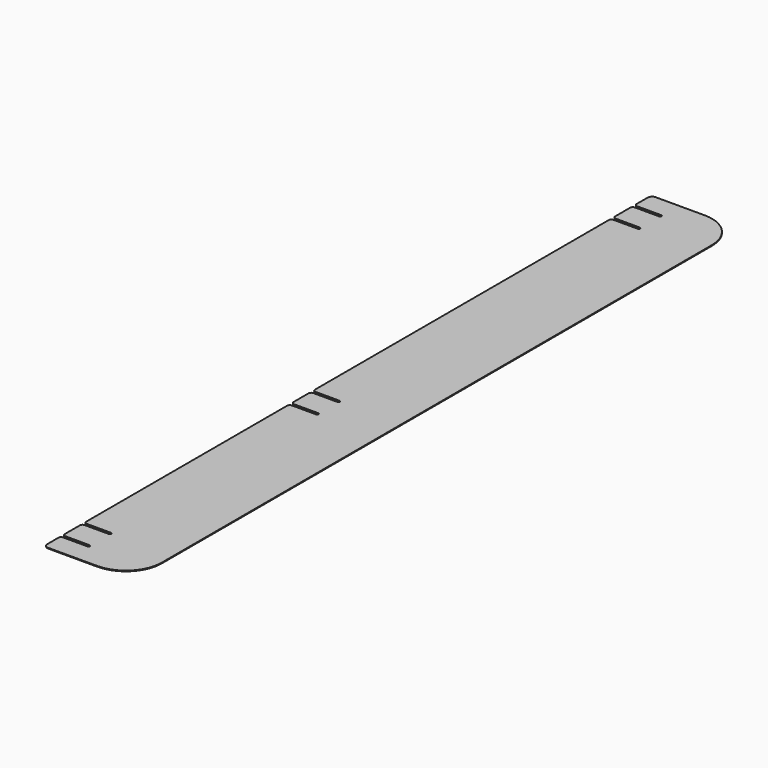
from build123d import *

# Parameters (mm, degrees)
F1_DEPTH = 0.8
F2_R     = 3


with BuildPart() as f1:
    # F0 (on Top) → F1 (new body)
    with BuildSketch(Plane.XY):
        with BuildLine():
            Line((-40, 825), (-95, 825))
            ThreePointArc((-95, 825), (-98.535534, 823.535534), (-100, 820))
            Line((-100, 820), (-100, 801.5))
            Line((-100, 801.5), (-70, 801.5))
            ThreePointArc((-70, 801.5), (-68.93934, 801.06066), (-68.5, 800))
            ThreePointArc((-68.5, 800), (-68.93934, 798.93934), (-70, 798.5))
            Line((-70, 798.5), (-100, 798.5))
            Line((-100, 798.5), (-100, 771.5))
            Line((-100, 771.5), (-70, 771.5))
            ThreePointArc((-70, 771.5), (-68.93934, 771.06066), (-68.5, 770))
            ThreePointArc((-68.5, 770), (-68.93934, 768.93934), (-70, 768.5))
            Line((-70, 768.5), (-100, 768.5))
            Line((-100, 768.5), (-100, 351.5))
            Line((-100, 351.5), (-70, 351.5))
            ThreePointArc((-70, 351.5), (-68.93934, 351.06066), (-68.5, 350))
            ThreePointArc((-68.5, 350), (-68.93934, 348.93934), (-70, 348.5))
            Line((-70, 348.5), (-100, 348.5))
            Line((-100, 348.5), (-100, 321.5))
            Line((-100, 321.5), (-70, 321.5))
            ThreePointArc((-70, 321.5), (-68.93934, 321.06066), (-68.5, 320))
            ThreePointArc((-68.5, 320), (-68.93934, 318.93934), (-70, 318.5))
            Line((-70, 318.5), (-100, 318.5))
            Line((-100, 318.5), (-100, 31.5))
            Line((-100, 31.5), (-70, 31.5))
            ThreePointArc((-70, 31.5), (-68.93934, 31.06066), (-68.5, 30))
            ThreePointArc((-68.5, 30), (-68.93934, 28.93934), (-70, 28.5))
            Line((-70, 28.5), (-100, 28.5))
            Line((-100, 28.5), (-100, 1.5))
            Line((-100, 1.5), (-70, 1.5))
            ThreePointArc((-70, 1.5), (-68.93934, 1.06066), (-68.5, 0))
            ThreePointArc((-68.5, 0), (-68.93934, -1.06066), (-70, -1.5))
            Line((-70, -1.5), (-100, -1.5))
            Line((-100, -1.5), (-100, -20))
            ThreePointArc((-100, -20), (-98.535534, -23.535534), (-95, -25))
            Line((-95, -25), (-40, -25))
            ThreePointArc((-40, -25), (-11.715729, -13.284271), (0, 15))
            Line((0, 15), (0, 785))
            ThreePointArc((0, 785), (-11.715729, 813.284271), (-40, 825))
        make_face()
    extrude(amount=F1_DEPTH)

    # F2
    f2_edges = [f1.edges().sort_by_distance(p)[0] for p in [
        (-100, 801.5, 0.4),
        (-100, 798.5, 0.4),
        (-100, 771.5, 0.4),
        (-100, 768.5, 0.4),
        (-100, 351.5, 0.4),
        (-100, 348.5, 0.4),
        (-100, 321.5, 0.4),
        (-100, 318.5, 0.4),
        (-100, 31.5, 0.4),
        (-100, 28.5, 0.4),
        (-100, 1.5, 0.4),
        (-100, -1.5, 0.4),
    ]]
    fillet(f2_edges, radius=F2_R)


solid = f1.part
